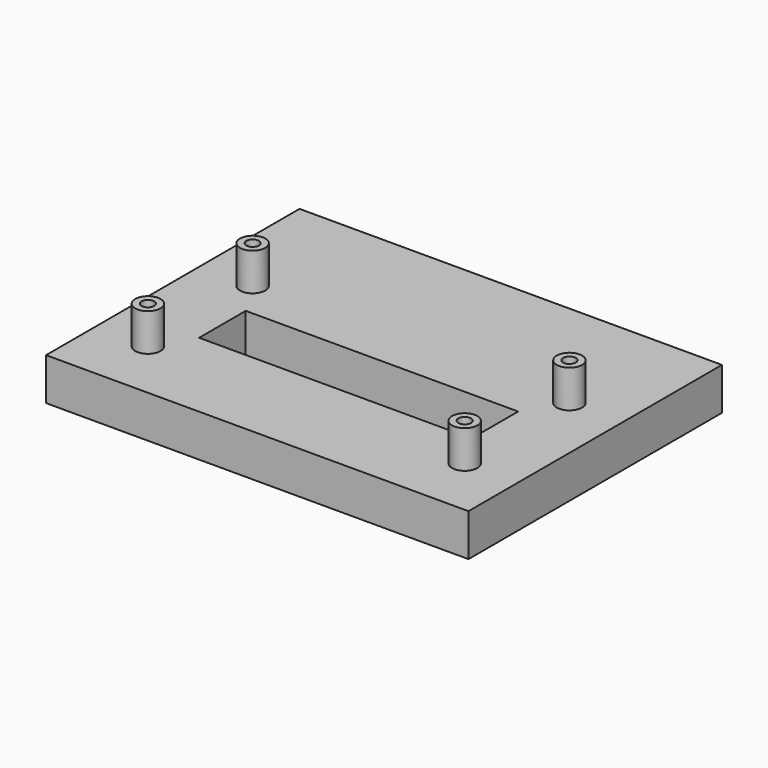
from build123d import *

# Parameters (mm, degrees)
SKETCH_W      = 100
SKETCH_H      = 75
PAD_DEPTH     = 10
SKETCH001_R   = 3
SKETCH001_R_2 = 1.5
PAD001_DEPTH  = 8.9
POCKET_DEPTH  = 10


with BuildPart() as part:
    # Sketch → Pad (new body)
    with BuildSketch(Plane.XY):
        with Locations((50, 37.5)):
            Rectangle(SKETCH_W, SKETCH_H)
    extrude(amount=PAD_DEPTH)

    # Sketch001 → Pad001 (new body)
    with BuildSketch(Plane.XY.offset(10)):
        with Locations((12.5, 14.5)):
            Circle(SKETCH001_R)
        with Locations((12.5, 14.5)):
            Circle(SKETCH001_R_2, mode=Mode.SUBTRACT)
        with Locations((12.5, 45.5)):
            Circle(SKETCH001_R)
        with Locations((12.5, 45.5)):
            Circle(SKETCH001_R_2, mode=Mode.SUBTRACT)
        with Locations((87.5, 45.5)):
            Circle(SKETCH001_R)
        with Locations((87.5, 45.5)):
            Circle(SKETCH001_R_2, mode=Mode.SUBTRACT)
        with Locations((87.5, 14.5)):
            Circle(SKETCH001_R)
        with Locations((87.5, 14.5)):
            Circle(SKETCH001_R_2, mode=Mode.SUBTRACT)
    extrude(amount=PAD001_DEPTH)

    # Sketch002 → Pocket (cut)
    with BuildSketch(Plane.XY.offset(10)):
        Polygon((82.25, 23.1), (82.25, 36.9), (17.75, 36.9), (17.75, 30), (17.75, 23.1), (50, 23.1), align=None)
    extrude(amount=-POCKET_DEPTH, mode=Mode.SUBTRACT)


solid = part.part
